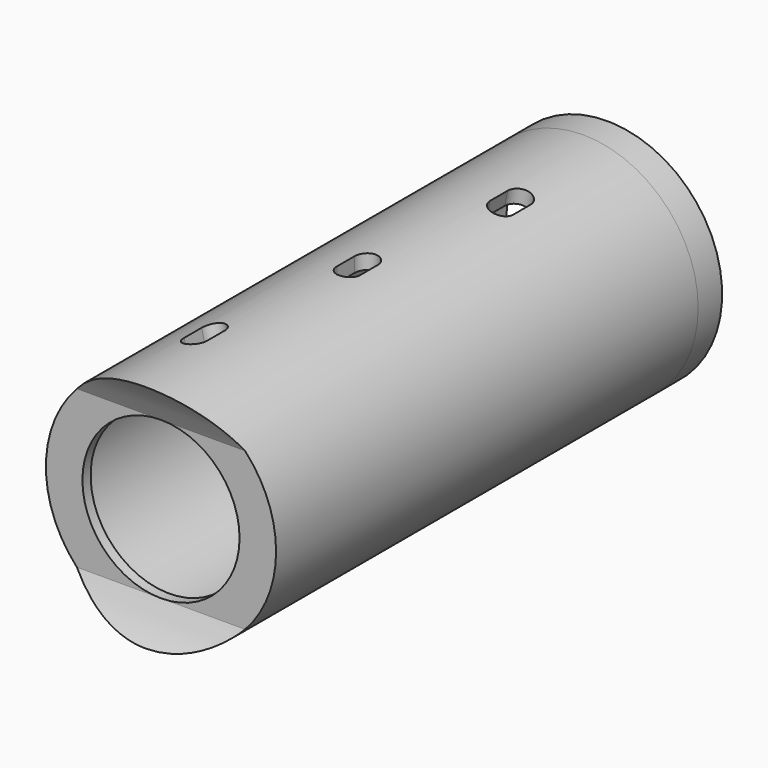
from build123d import *

# Parameters (mm, degrees)
F0_R          = 20.0025
F0_R_2        = 17.4625
F1_DEPTH      = 47.5
F2_R          = 20.0025
F2_R_2        = 13.6525
F3_DEPTH      = 5.08
F5_DEPTH      = 20.0035
F5_DEPTH_BACK = 20.0035
F7_DEPTH      = 20.0035001
F11_DEPTH     = 23.7251510989
F14_DEPTH     = 23.7251510989
F15_R         = 20.0025
F15_R_2       = 17.4625
F16_DEPTH     = 5.207


with BuildPart() as f1:
    # F0 (on Front) → F1 (new body, symmetric)
    with BuildSketch(Plane.XZ):
        Circle(F0_R)
        Circle(F0_R_2, mode=Mode.SUBTRACT)
    extrude(amount=F1_DEPTH, both=True)

    # F2 (on face) → F3 (join)
    with BuildSketch(Plane.XZ.offset(47.5)):
        Circle(F2_R)
        Circle(F2_R_2, mode=Mode.SUBTRACT)
    extrude(amount=-F3_DEPTH)

    # F4 (on Right) → F5 (cut, two sides)
    with BuildSketch(Plane.YZ) as f5_sk:
        with BuildLine():
            Line((-44.198, -13.6525), (-44.198, 13.6525))
            ThreePointArc((-44.198, 13.6525), (-45.6936183213, 16.9082984729), (-47.5, 20.0025))
            Line((-47.5, 20.0025), (-47.5, -20.0025))
            ThreePointArc((-47.5, -20.0025), (-45.6936183213, -16.9082984729), (-44.198, -13.6525))
        make_face()
    extrude(amount=-F5_DEPTH, mode=Mode.SUBTRACT)
    extrude(f5_sk.sketch, amount=F5_DEPTH_BACK, mode=Mode.SUBTRACT)

    # F6 (on Top) → F7 (cut, through all)
    with BuildSketch(Plane.XY):
        with BuildLine():
            Line((-2.032, 0.379), (-2.032, -3.431))
            ThreePointArc((-2.032, -3.431), (0, -5.463), (2.032, -3.431))
            Line((2.032, -3.431), (2.032, 0.379))
            ThreePointArc((2.032, 0.379), (0, 2.411), (-2.032, 0.379))
        make_face()
    extrude(amount=F7_DEPTH, mode=Mode.SUBTRACT)

    # F10 (on face) → F11 (cut, through all)
    with BuildSketch(Plane(origin=(0, 0, 0), x_dir=(0.9781476007, 0, 0.2079116908), z_dir=(0.2079116908, 0, -0.9781476007))):
        with BuildLine():
            ThreePointArc((2.032, 31.498), (0, 33.53), (-2.032, 31.498))
            Line((-2.032, 31.498), (-2.032, 27.688))
            ThreePointArc((-2.032, 27.688), (0, 25.656), (2.032, 27.688))
            Line((2.032, 27.688), (2.032, 31.498))
        make_face()
    extrude(amount=-F11_DEPTH, mode=Mode.SUBTRACT)

    # F13 (on face) → F14 (cut, through all)
    with BuildSketch(Plane(origin=(0, 0, 0), x_dir=(0.9781476007, 0, -0.2079116908), z_dir=(-0.2079116908, 0, -0.9781476007))):
        with BuildLine():
            Line((2.032, -28.446), (2.032, -24.636))
            ThreePointArc((2.032, -24.636), (0, -22.604), (-2.032, -24.636))
            Line((-2.032, -24.636), (-2.032, -28.446))
            ThreePointArc((-2.032, -28.446), (0, -30.478), (2.032, -28.446))
        make_face()
    extrude(amount=-F14_DEPTH, mode=Mode.SUBTRACT)

    # F15 (on face) → F16 (join)
    with BuildSketch(Plane(origin=(0, 47.5, 0), x_dir=(-1, 0, 0), z_dir=(0, 1, 0))):
        Circle(F15_R)
        Circle(F15_R_2, mode=Mode.SUBTRACT)
    extrude(amount=F16_DEPTH)


solid = f1.part
